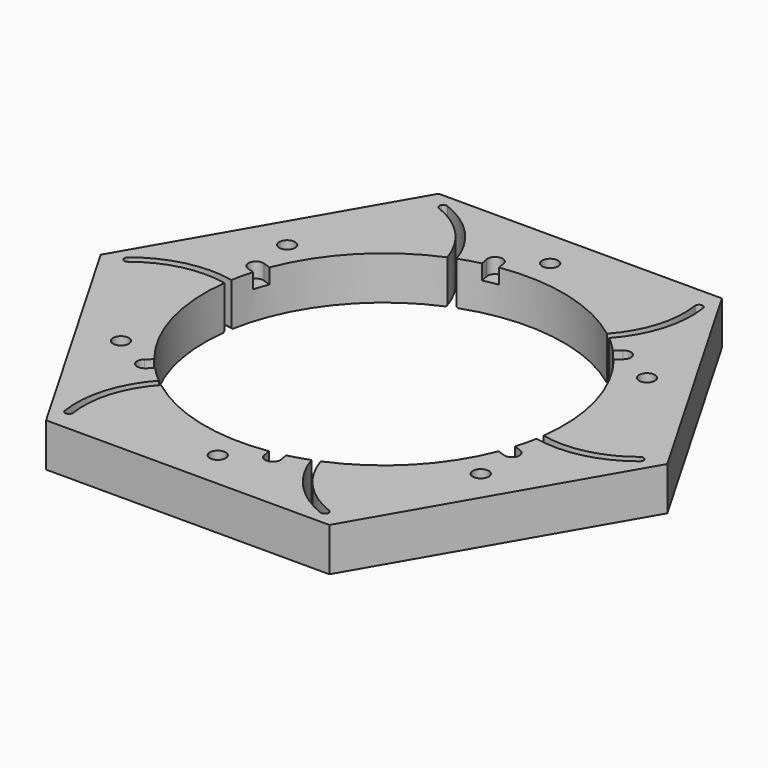
from build123d import *

# Parameters (mm, degrees)
F2_START      = 2
F0_R          = 4.2
F0_R_2        = 95
F2_DEPTH      = 23
F4_DEPTH      = 35
F4_DEPTH_BACK = 10
F5_COUNT      = 6
F8_DEPTH      = 8
F8_DEPTH_BACK = 10
F9_COUNT      = 6
F12_D         = 5
F12_DEPTH     = 12
F12_START     = 2
F12_TIP       = 1.5021515476
F13_SIZE      = 0.6


with BuildPart() as f2:
    # F0 (on Top) → F2 (new body)
    with BuildSketch(Plane.XY.offset(F2_START)):
        Polygon((75, 129.9038105677), (-75, 129.9038105677), (-150, 0), (-75, -129.9038105677), (75, -129.9038105677), (150, 0), align=None)
        with Locations((-95.2627944163, -55)):
            Circle(F0_R, mode=Mode.SUBTRACT)
        with Locations((0, -110)):
            Circle(F0_R, mode=Mode.SUBTRACT)
        with Locations((95.2627944163, -55)):
            Circle(F0_R, mode=Mode.SUBTRACT)
        with Locations((-95.2627944163, 55)):
            Circle(F0_R, mode=Mode.SUBTRACT)
        Circle(F0_R_2, mode=Mode.SUBTRACT)
        with Locations((95.2627944163, 55)):
            Circle(F0_R, mode=Mode.SUBTRACT)
        with Locations((0, 110)):
            Circle(F0_R, mode=Mode.SUBTRACT)
    extrude(amount=F2_DEPTH)


with BuildPart() as f4:
    # F3 (on Top) → F4 (new body, two sides)
    with BuildSketch(Plane.XY) as f4_sk:
        with BuildLine():
            ThreePointArc((-34.5435296861, 77.6643068393), (-32.6327882373, 78.4863117484), (-30.7025049427, 79.2613158498))
            ThreePointArc((-30.7025049427, 79.2613158498), (-41.9019572207, 106.1559598637), (-65.2675230757, 123.5571075336))
            ThreePointArc((-65.2675230757, 123.5571075336), (-66.656996648, 123.5810891624), (-67.7266746593, 122.6939584625))
            ThreePointArc((-67.7266746593, 122.6939584625), (-67.8817545517, 121.0315856662), (-66.7217246277, 119.8308093913))
            ThreePointArc((-66.7217246277, 119.8308093913), (-44.7195832857, 103.2599332678), (-34.5435296861, 77.6643068393))
        make_face()
    extrude(amount=F4_DEPTH)
    extrude(f4_sk.sketch, amount=-F4_DEPTH_BACK)


with BuildPart() as f5_1:
    # F5: instance of F4
    add(f4.part.rotate(Axis((0, 0, -0.1854561269), (0, 0, 1)), 1 * 360 / F5_COUNT))


with BuildPart() as f5_2:
    # F5: instance of F4
    add(f4.part.rotate(Axis((0, 0, -0.1854561269), (0, 0, 1)), 2 * 360 / F5_COUNT))


with BuildPart() as f5_3:
    # F5: instance of F4
    add(f4.part.rotate(Axis((0, 0, -0.1854561269), (0, 0, 1)), 3 * 360 / F5_COUNT))


with BuildPart() as f5_4:
    # F5: instance of F4
    add(f4.part.rotate(Axis((0, 0, -0.1854561269), (0, 0, 1)), 4 * 360 / F5_COUNT))


with BuildPart() as f5_5:
    # F5: instance of F4
    add(f4.part.rotate(Axis((0, 0, -0.1854561269), (0, 0, 1)), 5 * 360 / F5_COUNT))


with BuildPart() as f2_1:
    add(f2.part)

    # F6: cut F4, F5_5, F5_4, F5_3, F5_2, F5_1
    add(f4.part, mode=Mode.SUBTRACT)
    add(f5_5.part, mode=Mode.SUBTRACT)
    add(f5_4.part, mode=Mode.SUBTRACT)
    add(f5_3.part, mode=Mode.SUBTRACT)
    add(f5_2.part, mode=Mode.SUBTRACT)
    add(f5_1.part, mode=Mode.SUBTRACT)

    # F9: F8 ×6 about axis
    f9_axis = Axis((0, 0, -0.1854561269), (0, 0, 1))


with BuildPart() as f8:
    # F7 (on face) → F8 (new body, two sides)
    with BuildSketch(Plane.XY.offset(25)) as f8_sk:
        with BuildLine():
            ThreePointArc((-14.9635818085, 97.9443271428), (-16.6533189284, 100.4972414515), (-19.6533265238, 101.1075998951))
            ThreePointArc((-19.6533265238, 101.1075998951), (-22.2062408325, 99.4178627752), (-22.8165992761, 96.4178551798))
            Line((-22.8165992761, 96.4178551798), (-20.6971664161, 85.5143183486))
            Line((-20.6971664161, 85.5143183486), (-16.7706576823, 86.2775543301))
            Line((-16.7706576823, 86.2775543301), (-12.8441489485, 87.0407903117))
            Line((-12.8441489485, 87.0407903117), (-14.9635818085, 97.9443271428))
        make_face()
    extrude(amount=-F8_DEPTH)
    extrude(f8_sk.sketch, amount=F8_DEPTH_BACK)


with BuildPart() as f2_2:
    add(f2_1.part)
    for i in range(1, F9_COUNT):
        add(f8.part.rotate(f9_axis, i * 360 / F9_COUNT), mode=Mode.SUBTRACT)

    # F9#seed: cut F8
    add(f8.part, mode=Mode.SUBTRACT)

    # F12
    # its depths count from where the whole tool has entered the part; down to there all is cleared
    with Locations(Plane(origin=(0, 0, 0), x_dir=(1, 0, 0), z_dir=(0, 0, -1)).offset(-F12_START)):
        with Locations((-85.2627944163, -72.3205080757), (20, -110), (105.2627944163, -37.6794919243), (85.2627944163, 72.3205080757), (-20, 110), (-105.2627944163, 37.6794919243)):
            Hole(F12_D / 2, depth=F12_DEPTH)
            with Locations((0, 0, -(F12_DEPTH + F12_TIP / 2))):  # 118° drill point
                Cone(0, F12_D / 2, F12_TIP, mode=Mode.SUBTRACT)

    # F13
    f13_edges = [f2_2.edges().sort_by_distance(p)[0] for p in [
        (48.019062, -107.161639, 2),
        (116.814232, -11.995092, 2),
        (68.79517, 95.166547, 2),
        (-48.019062, 107.161639, 2),
        (-116.814232, 11.995092, 2),
        (-68.79517, -95.166547, 2),
    ]]
    chamfer(f13_edges, length=F13_SIZE)


solid = f2_2.part
